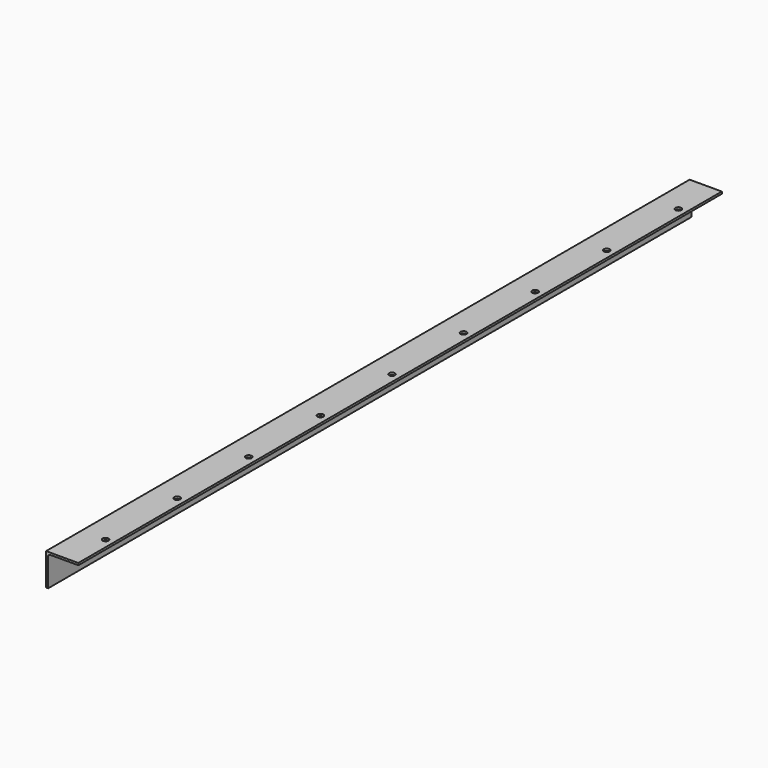
from build123d import *

# Parameters (mm, degrees)
F1_DEPTH = 1270
F3_DEPTH = 50.801


with BuildPart() as f1:
    # F0 (on Front) → F1 (new body)
    with BuildSketch(Plane.XZ):
        with BuildLine():
            Line((0, 50.8), (0, 0))
            Line((0, 0), (3.175, 0))
            Line((3.175, 0), (3.175, 44.45))
            ThreePointArc((3.175, 44.45), (4.1049359697, 46.6950640303), (6.35, 47.625))
            Line((6.35, 47.625), (50.9895532397, 47.625))
            Line((50.9895532397, 47.625), (50.8, 50.8))
            Line((50.8, 50.8), (0, 50.8))
        make_face()
    extrude(amount=F1_DEPTH)

    # F2 (on face) → F3 (cut, through all)
    with BuildSketch(Plane.XY.offset(50.8)):
        with BuildLine():
            ThreePointArc((38.1, -74.6125), (41.4675960454, -73.2175960454), (42.8625, -69.85))
            ThreePointArc((42.8625, -69.85), (34.7324039546, -66.4824039546), (38.1, -74.6125))
        make_face()
        with BuildLine():
            ThreePointArc((42.8625, -211.1375), (41.4675960454, -207.7699039546), (38.1, -206.375))
            Line((38.1, -206.375), (38.1, -211.1375))
            Line((38.1, -211.1375), (38.1, -215.9))
            ThreePointArc((38.1, -215.9), (41.4675960454, -214.5050960454), (42.8625, -211.1375))
        make_face()
        with BuildLine():
            Line((38.1, -211.1375), (38.1, -206.375))
            ThreePointArc((38.1, -206.375), (33.3375, -211.1375), (38.1, -215.9))
            Line((38.1, -215.9), (38.1, -211.1375))
        make_face()
        with BuildLine():
            ThreePointArc((42.8625, -352.425), (41.4675960454, -349.0574039546), (38.1, -347.6625))
            Line((38.1, -347.6625), (38.1, -352.425))
            Line((38.1, -352.425), (38.1, -357.1875))
            ThreePointArc((38.1, -357.1875), (41.4675960454, -355.7925960454), (42.8625, -352.425))
        make_face()
        with BuildLine():
            ThreePointArc((42.8625, -493.7125), (41.4675960454, -490.3449039546), (38.1, -488.95))
            Line((38.1, -488.95), (38.1, -493.7125))
            Line((38.1, -493.7125), (38.1, -498.475))
            ThreePointArc((38.1, -498.475), (41.4675960454, -497.0800960454), (42.8625, -493.7125))
        make_face()
        with BuildLine():
            Line((38.1, -493.7125), (38.1, -488.95))
            ThreePointArc((38.1, -488.95), (33.3375, -493.7125), (38.1, -498.475))
            Line((38.1, -498.475), (38.1, -493.7125))
        make_face()
        with BuildLine():
            ThreePointArc((42.8625, -776.2875), (41.4675960454, -772.9199039546), (38.1, -771.525))
            Line((38.1, -771.525), (38.1, -776.2875))
            Line((38.1, -776.2875), (38.1, -781.05))
            ThreePointArc((38.1, -781.05), (41.4675960454, -779.6550960454), (42.8625, -776.2875))
        make_face()
        with BuildLine():
            Line((38.1, -776.2875), (38.1, -771.525))
            ThreePointArc((38.1, -771.525), (33.3375, -776.2875), (38.1, -781.05))
            Line((38.1, -781.05), (38.1, -776.2875))
        make_face()
        with BuildLine():
            ThreePointArc((42.8625, -635), (41.4675960454, -631.6324039546), (38.1, -630.2375))
            Line((38.1, -630.2375), (38.1, -635))
            Line((38.1, -635), (38.1, -639.7625))
            ThreePointArc((38.1, -639.7625), (41.4675960454, -638.3675960454), (42.8625, -635))
        make_face()
        with BuildLine():
            Line((38.1, -635), (38.1, -630.2375))
            ThreePointArc((38.1, -630.2375), (33.3375, -635), (38.1, -639.7625))
            Line((38.1, -639.7625), (38.1, -635))
        make_face()
        with BuildLine():
            ThreePointArc((42.8625, -917.575), (41.4675960454, -914.2074039546), (38.1, -912.8125))
            Line((38.1, -912.8125), (38.1, -917.575))
            Line((38.1, -917.575), (38.1, -922.3375))
            ThreePointArc((38.1, -922.3375), (41.4675960454, -920.9425960454), (42.8625, -917.575))
        make_face()
        with BuildLine():
            Line((38.1, -917.575), (38.1, -912.8125))
            ThreePointArc((38.1, -912.8125), (33.3375, -917.575), (38.1, -922.3375))
            Line((38.1, -922.3375), (38.1, -917.575))
        make_face()
        with BuildLine():
            Line((38.1, -1058.8625), (38.1, -1054.1))
            ThreePointArc((38.1, -1054.1), (33.3375, -1058.8625), (38.1, -1063.625))
            Line((38.1, -1063.625), (38.1, -1058.8625))
        make_face()
        with BuildLine():
            ThreePointArc((42.8625, -1058.8625), (41.4675960454, -1055.4949039546), (38.1, -1054.1))
            Line((38.1, -1054.1), (38.1, -1058.8625))
            Line((38.1, -1058.8625), (38.1, -1063.625))
            ThreePointArc((38.1, -1063.625), (41.4675960454, -1062.2300960454), (42.8625, -1058.8625))
        make_face()
        with BuildLine():
            ThreePointArc((42.8625, -1200.15), (41.4675960454, -1196.7824039546), (38.1, -1195.3875))
            ThreePointArc((38.1, -1195.3875), (34.7324039546, -1203.5175960454), (42.8625, -1200.15))
        make_face()
        with BuildLine():
            Line((38.1, -352.425), (38.1, -347.6625))
            ThreePointArc((38.1, -347.6625), (33.3375, -352.425), (38.1, -357.1875))
            Line((38.1, -357.1875), (38.1, -352.425))
        make_face()
    extrude(amount=-F3_DEPTH, mode=Mode.SUBTRACT)


solid = f1.part
